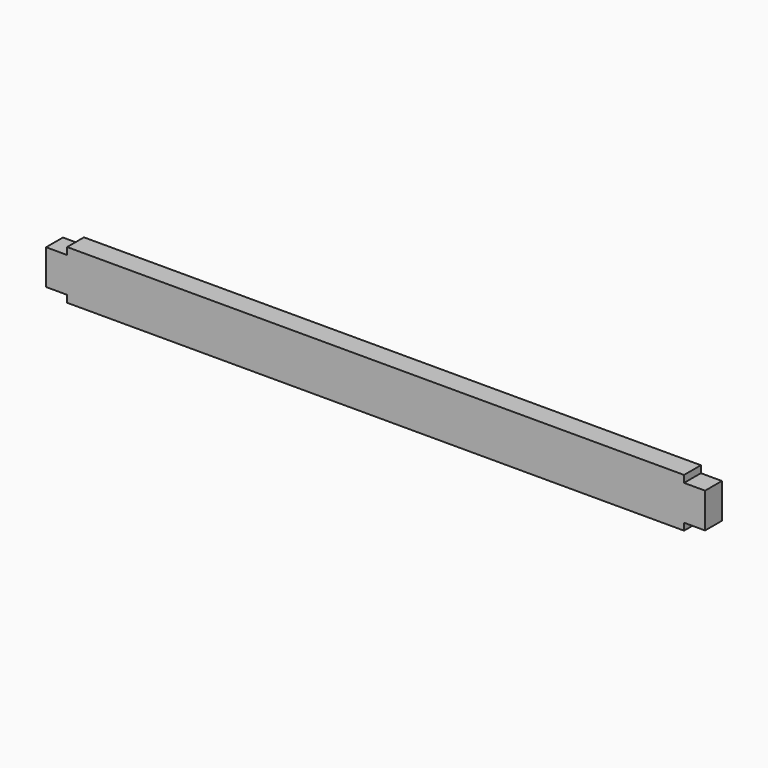
from build123d import *

# Parameters (mm, degrees)
F0_W     = 38.1
F0_H     = 88.9
F1_DEPTH = 1117.6
F2_W     = 38.1
F2_H     = 63.5
F3_DEPTH = 38.1
F4_W     = 38.1
F4_H     = 63.5
F5_DEPTH = 38.1


with BuildPart() as f1:
    # F0 (on Right) → F1 (new body)
    with BuildSketch(Plane.YZ):
        with Locations((19.05, 44.45)):
            Rectangle(F0_W, F0_H)
    extrude(amount=-F1_DEPTH)

    # F2 (on face) → F3 (join)
    with BuildSketch(Plane.YZ):
        with Locations((19.05, 44.45)):
            Rectangle(F2_W, F2_H)
    extrude(amount=F3_DEPTH)

    # F4 (on face) → F5 (join)
    with BuildSketch(Plane(origin=(-1117.6, 0, 0), x_dir=(0, -1, 0), z_dir=(-1, 0, 0))):
        with Locations((-19.05, 44.45)):
            Rectangle(F4_W, F4_H)
    extrude(amount=F5_DEPTH)


solid = f1.part
